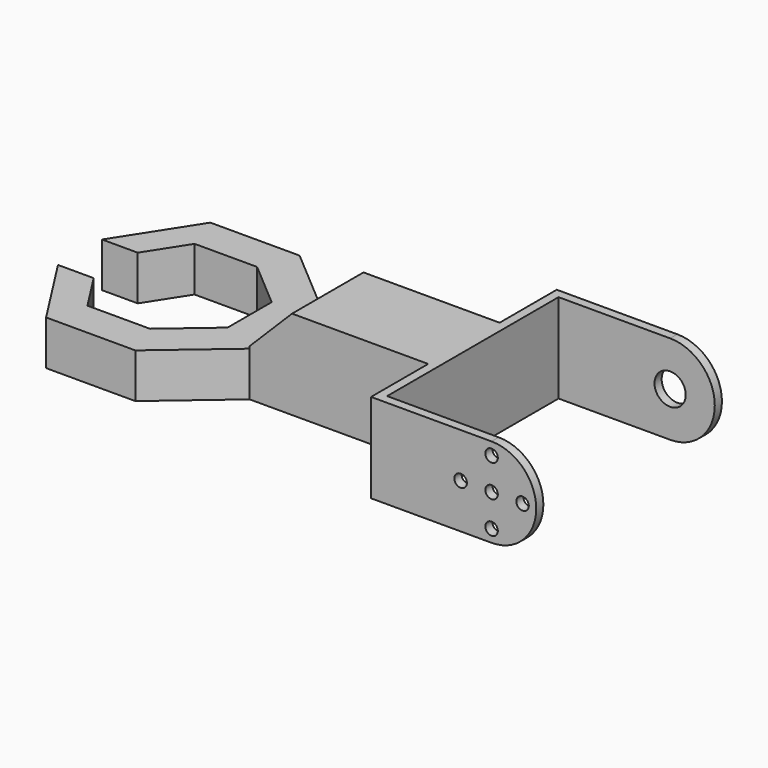
from build123d import *

# Parameters (mm, degrees)
SKETCH_W     = 40
SKETCH_H     = 20
PAD_DEPTH    = 20
SKETCH001_W  = 48
SKETCH001_H  = 20
PAD001_DEPTH = 2
SKETCH002_R  = 1.4
PAD002_DEPTH = 2
SKETCH003_R  = 3.5
PAD003_DEPTH = 2
PAD004_DEPTH = 10
CHAMFER_SIZE = 9.5


with BuildPart() as body:
    # Sketch → Pad (new body)
    with BuildSketch(Plane.XY):
        Rectangle(SKETCH_W, SKETCH_H)
    extrude(amount=PAD_DEPTH)

    # Sketch001 (on Face2 of Pad) → Pad001 (join)
    with BuildSketch(Plane.YZ.offset(20)):
        with Locations((0, 10)):
            Rectangle(SKETCH001_W, SKETCH001_H)
    extrude(amount=PAD001_DEPTH)

    # Sketch002 (on Face2 of Pad001) → Pad002 (join)
    with BuildSketch(Plane.XZ.offset(24)):
        with BuildLine():
            Line((20, 20), (47, 20))
            ThreePointArc((47, 0), (57, 10), (47, 20))
            Line((20, 0), (47, 0))
            Line((20, 20), (20, 0))
        make_face()
        with Locations((47, 10)):
            Circle(SKETCH002_R, mode=Mode.SUBTRACT)
        with Locations((47, 17.205)):
            Circle(SKETCH002_R, mode=Mode.SUBTRACT)
        with Locations((53.934549, 10)):
            Circle(SKETCH002_R, mode=Mode.SUBTRACT)
        with Locations((47, 2.795)):
            Circle(SKETCH002_R, mode=Mode.SUBTRACT)
        with Locations((40.065451, 10)):
            Circle(SKETCH002_R, mode=Mode.SUBTRACT)
    extrude(amount=PAD002_DEPTH)

    # Sketch003 (on Face3 of Pad002) → Pad003 (join)
    with BuildSketch(Plane(origin=(0, 24, 0), x_dir=(-1, 0, 0), z_dir=(0, 1, 0))):
        with BuildLine():
            Line((-20, 20), (-47, 20))
            ThreePointArc((-47, 20), (-57, 10), (-47, 0))
            Line((-20, 0), (-47, 0))
            Line((-20, 20), (-20, 0))
        make_face()
        with Locations((-47, 10)):
            Circle(SKETCH003_R, mode=Mode.SUBTRACT)
    extrude(amount=PAD003_DEPTH)

    # Sketch004 (on Face5 of Pad003) → Pad004 (join)
    with BuildSketch(Plane.XY.offset(20)):
        Polygon((-20, 10), (-35.198684, 23), (-55.198684, 23), (-66, 6.167544), (-58, 6.167544), (-52.33225, 15), (-38.326285, 15), (-28, 6.167544), (-28, -6.167544), (-38.326285, -15), (-52.33225, -15), (-58, -6.167544), (-66, -6.167544), (-55.198684, -23), (-35.198684, -23), (-20, -10), align=None)
    extrude(amount=-PAD004_DEPTH)

    # Chamfer
    chamfer_edges = [body.edges().sort_by_distance(p)[0] for p in [
        (-20, 0, 0),
    ]]
    chamfer(chamfer_edges, length=CHAMFER_SIZE)


with BuildPart() as part_mirroring:
    # Part__Mirroring: instance of Body
    add(body.part.mirror(Plane(origin=(0, 0, 0), x_dir=(0, 1, 0), z_dir=(0, 0, 1))))


solid = part_mirroring.part
